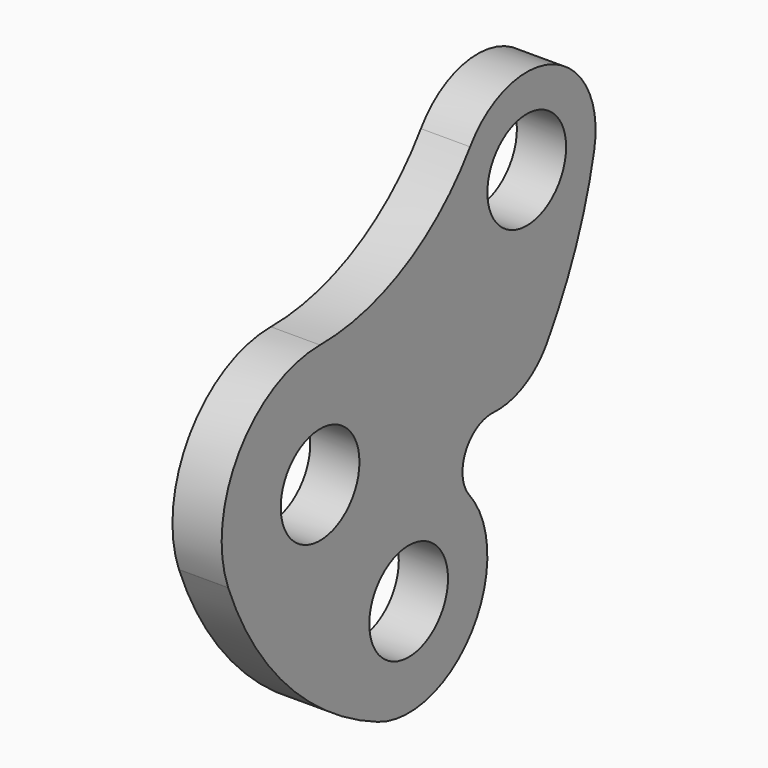
from build123d import *

# Parameters (mm, degrees)
F0_R     = 10
F1_DEPTH = 10


with BuildPart() as f1:
    # F0 (on Right) → F1 (new body)
    with BuildSketch(Plane.YZ):
        with BuildLine():
            ThreePointArc((38.113879, 44.964413), (21.513052, 30.293265), (0, 25))
            ThreePointArc((0, 25), (-20.58691, 14.183763), (-23.359988, -8.905671))
            ThreePointArc((-23.359988, -8.905671), (-23.349868, -8.932169), (-23.339719, -8.958656))
            ThreePointArc((-23.339719, -8.958656), (-8.349163, -32.524314), (14.636825, -48.389412))
            ThreePointArc((14.636825, -48.389412), (38.522419, -41.970049), (37.904534, -17.244596))
            ThreePointArc((37.904534, -17.244596), (36.990811, -9.071889), (44.120823, -4.974213))
            ThreePointArc((44.120823, -4.974213), (51.812387, -3.363809), (57.634222, 1.91443))
            ThreePointArc((57.634222, 1.91443), (64.999302, 16.147055), (69.64331, 31.48476))
            ThreePointArc((69.64331, 31.48476), (59.379374, 51.091122), (38.113879, 44.964413))
        make_face()
        Circle(F0_R, mode=Mode.SUBTRACT)
        with Locations((22.5, -30)):
            Circle(F0_R, mode=Mode.SUBTRACT)
        with Locations((52.5, 35)):
            Circle(F0_R, mode=Mode.SUBTRACT)
    extrude(amount=F1_DEPTH)


solid = f1.part
